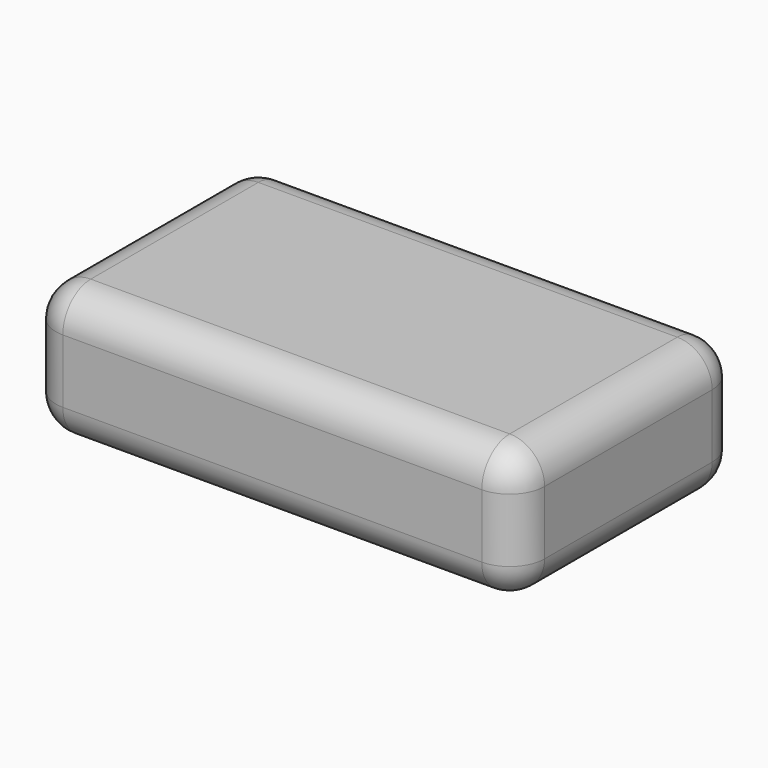
from build123d import *

# Parameters (mm, degrees)
F1_DEPTH = 40
F2_R     = 5


with BuildPart() as f1:
    # F0 (on Front) → F1 (new body)
    with BuildSketch(Plane.XZ):
        with BuildLine():
            Line((-6.6860741377, 15.0036541745), (-66.6860741377, 15.0036541745))
            ThreePointArc((-66.6860741377, 15.0036541745), (-70.2216080436, 13.5391880804), (-71.6860741377, 10.0036541745))
            Line((-71.6860741377, 10.0036541745), (-71.6860741377, 0.8782084286))
            ThreePointArc((-71.6860741377, 0.8782084286), (-70.2216080436, -2.6573254773), (-66.6860741377, -4.1217915714))
            Line((-66.6860741377, -4.1217915714), (-6.6860741377, -4.1217915714))
            ThreePointArc((-6.6860741377, -4.1217915714), (-3.1505402318, -2.6573254773), (-1.6860741377, 0.8782084286))
            Line((-1.6860741377, 0.8782084286), (-1.6860741377, 10.0036541745))
            ThreePointArc((-1.6860741377, 10.0036541745), (-3.1505402318, 13.5391880804), (-6.6860741377, 15.0036541745))
        make_face()
    extrude(amount=F1_DEPTH)

    # F2
    f2_edges = [f1.edges().sort_by_distance(p)[0] for p in [
        (-70.221608, 0, -2.657325),
        (-6.686074, -20, 15.003654),
        (-66.686074, -20, 15.003654),
        (-36.686074, 0, 15.003654),
        (-36.686074, -40, 15.003654),
    ]]
    fillet(f2_edges, radius=F2_R)


solid = f1.part
